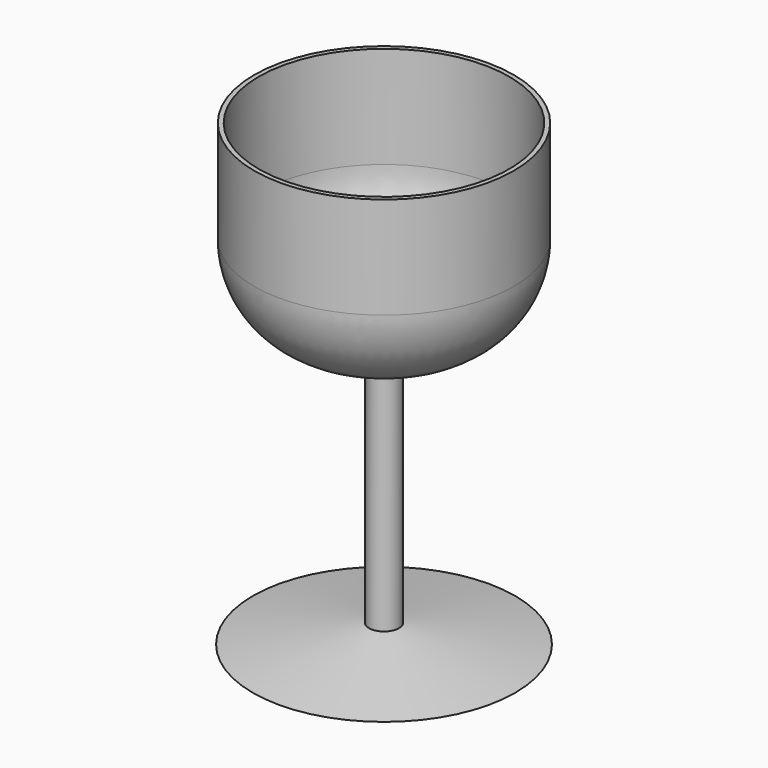
from build123d import *

# Parameters (mm, degrees)
F2_R = 25.4
F3_T = -1.27


with BuildPart() as f1:
    # F0 (on Front) → F1 (revolve)
    with BuildSketch(Plane.XZ):
        Polygon((-36.2194851041, -76.4004662633), (0, -76.4004662633), (0, 50.3677166998), (-35.8421988785, 50.3677166998), (-35.8421988785, 6.2252227217), (-4.1501536034, -8.8662281632), (-4.1501536034, -71.1184665561), align=None)
    revolve(axis=Axis((0, 0, -13.0163747817), (0, 0, -1)))

    # F2
    f2_edges = [f1.edges().sort_by_distance(p)[0] for p in [
        (35.842199, 0, 6.225223),
    ]]
    fillet(f2_edges, radius=F2_R)

    # F3
    f3_openings = [f1.faces().sort_by_distance(p)[0] for p in [
        (0, 0, 50.367717),
    ]]
    offset(amount=F3_T, openings=f3_openings, kind=Kind.INTERSECTION)


solid = f1.part
